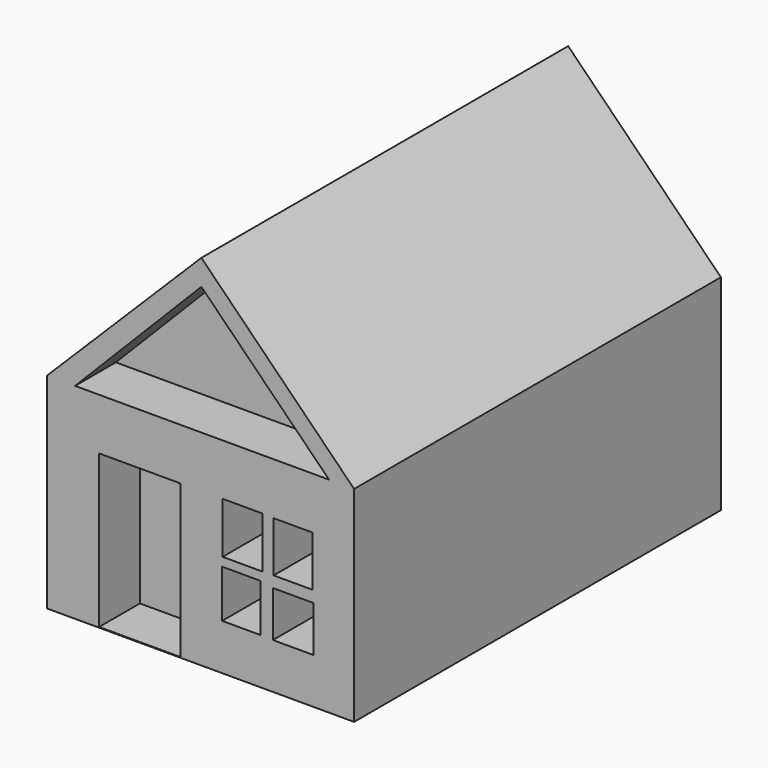
from build123d import *

# Parameters (mm, degrees)
PAD_DEPTH       = 90
POCKET_DEPTH    = 10
SKETCH002_W     = 15.977638
SKETCH002_H     = 29.995947
POCKET001_DEPTH = 10
SKETCH003_W     = 7.803505
SKETCH003_H     = 10.033076
POCKET002_DEPTH = 10
SKETCH004_W     = 7.580546
SKETCH004_H     = 9.884439
SKETCH004_W_2   = 7.506227
SKETCH004_H_2   = 9.364204
SKETCH004_W_3   = 7.952141
SKETCH004_H_3   = 8.992611
POCKET003_DEPTH = 10


with BuildPart() as part:
    # Sketch → Pad (new body)
    with BuildSketch(Plane.XZ):
        Polygon((0, 30.192584), (-30.283876, 0), (-30.283876, -40.257482), (29.976444, -40.257482), (29.976444, 0), align=None)
    extrude(amount=PAD_DEPTH)

    # Sketch001 (on Face7 of Pad) → Pocket (cut)
    with BuildSketch(Plane.XZ.offset(90)):
        Polygon((0, 25.187876), (25.062579, 0), (-24.79101, 0), align=None)
    extrude(amount=-POCKET_DEPTH, mode=Mode.SUBTRACT)

    # Sketch002 (on Face5 of Pocket) → Pocket001 (cut)
    with BuildSketch(Plane.XZ.offset(90)):
        with Locations((-12.082496, -25.124813)):
            Rectangle(SKETCH002_W, SKETCH002_H)
    extrude(amount=-POCKET001_DEPTH, mode=Mode.SUBTRACT)

    # Sketch003 (on Face5 of Pocket001) → Pocket002 (cut)
    with BuildSketch(Plane.XZ.offset(90)):
        with Locations((8.075235, -15.109341)):
            Rectangle(SKETCH003_W, SKETCH003_H)
    extrude(amount=-POCKET002_DEPTH, mode=Mode.SUBTRACT)

    # Sketch004 (on Face5 of Pocket002) → Pocket003 (cut)
    with BuildSketch(Plane.XZ.offset(90)):
        with Locations((17.978553, -15.130553)):
            Rectangle(SKETCH004_W, SKETCH004_H)
        with Locations((7.833998, -26.538534)):
            Rectangle(SKETCH004_W_2, SKETCH004_H_2)
        with Locations((18.015712, -26.798651)):
            Rectangle(SKETCH004_W_3, SKETCH004_H_3)
    extrude(amount=-POCKET003_DEPTH, mode=Mode.SUBTRACT)


solid = part.part
